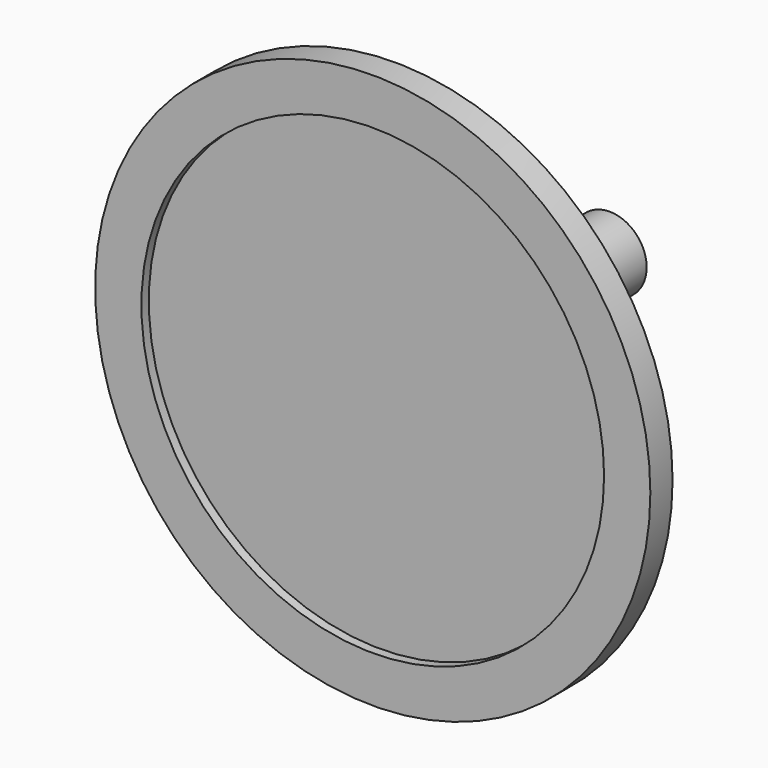
from build123d import *

# Parameters (mm, degrees)
CYLINDER006_R          = 25
CYLINDER006_DEPTH      = 3
CYLINDER006_ROLL_ANGLE = 90
CYLINDER003_R          = 5
CYLINDER003_DEPTH      = 11
CYLINDER003_ROLL_ANGLE = 90
CYLINDER005_R          = 30
CYLINDER005_DEPTH      = 3
CYLINDER005_ROLL_ANGLE = 90
CYLINDER004_R          = 15
CYLINDER004_DEPTH      = 4
CYLINDER004_ROLL_ANGLE = 90
CYLINDER002_R          = 4
CYLINDER002_DEPTH      = 32
CYLINDER002_ROLL_ANGLE = 90


with BuildPart() as bein004:
    # Cylinder006 → Cylinder006 (new body)
    with BuildSketch(Plane.XY):
        Circle(CYLINDER006_R)
    extrude(amount=CYLINDER006_DEPTH)


with BuildPart() as bein004_1:
    # Cylinder006 roll: moved
    add(bein004.part.rotate(Axis((0, 0, 0), (1, 0, 0)), CYLINDER006_ROLL_ANGLE))


with BuildPart() as bein004_2:
    # Cylinder006 placement: moved
    add(bein004_1.part.moved(Location((32, 3, 35.5))))


with BuildPart() as bein001:
    # Cylinder003 → Cylinder003 (new body)
    with BuildSketch(Plane.XY):
        Circle(CYLINDER003_R)
    extrude(amount=CYLINDER003_DEPTH)


with BuildPart() as bein001_1:
    # Cylinder003 roll: moved
    add(bein001.part.rotate(Axis((0, 0, 0), (1, 0, 0)), CYLINDER003_ROLL_ANGLE))


with BuildPart() as bein001_2:
    # Cylinder003 placement: moved
    add(bein001_1.part.moved(Location((32, 12, 35.5))))


with BuildPart() as bein003:
    # Cylinder005 → Cylinder005 (new body)
    with BuildSketch(Plane.XY):
        Circle(CYLINDER005_R)
    extrude(amount=CYLINDER005_DEPTH)


with BuildPart() as bein003_1:
    # Cylinder005 roll: moved
    add(bein003.part.rotate(Axis((0, 0, 0), (1, 0, 0)), CYLINDER005_ROLL_ANGLE))


with BuildPart() as bein003_2:
    # Cylinder005 placement: moved
    add(bein003_1.part.moved(Location((32, 5, 35.5))))


with BuildPart() as bein002:
    # Cylinder004 → Cylinder004 (new body)
    with BuildSketch(Plane.XY):
        Circle(CYLINDER004_R)
    extrude(amount=CYLINDER004_DEPTH)


with BuildPart() as bein002_1:
    # Cylinder004 roll: moved
    add(bein002.part.rotate(Axis((0, 0, 0), (1, 0, 0)), CYLINDER004_ROLL_ANGLE))


with BuildPart() as bein002_2:
    # Cylinder004 placement: moved
    add(bein002_1.part.moved(Location((32, 7, 35.5))))


with BuildPart() as cut002:
    # Cylinder002 → Cylinder002 (new body)
    with BuildSketch(Plane.XY):
        Circle(CYLINDER002_R)
    extrude(amount=CYLINDER002_DEPTH)


with BuildPart() as cut002_1:
    # Cylinder002 roll: moved
    add(cut002.part.rotate(Axis((0, 0, 0), (1, 0, 0)), CYLINDER002_ROLL_ANGLE))


with BuildPart() as cut002_2:
    # Cylinder002 placement: moved
    add(cut002_1.part.moved(Location((32, 34, 35.5))))

    # Fusion002: union bein001, bein003, bein002
    add(bein001_2.part)
    add(bein003_2.part)
    add(bein002_2.part)

    # Cut002: cut bein004
    add(bein004_2.part, mode=Mode.SUBTRACT)


solid = cut002_2.part
